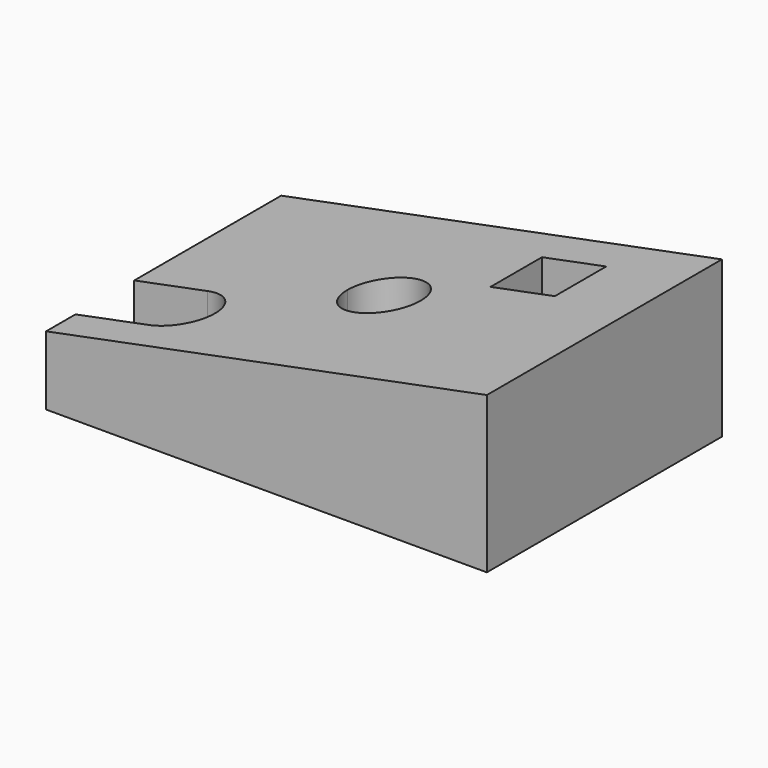
from build123d import *

# Parameters (mm, degrees)
F1_DEPTH = 53.975
F3_DEPTH = 101.6


with BuildPart() as f1:
    # F0 (on Top) → F1 (new body)
    with BuildSketch(Plane.XY):
        Polygon((36.5125, -50.8), (76.2, -50.8), (76.2, 50.8), (-76.2, 50.8), (-76.2, 25.4), (25.4, 25.4), (25.4, 36.5125), (47.625, 36.5125), (47.625, 14.2875), (36.5125, 14.2875), align=None)
        with BuildLine():
            Line((-76.2, -50.8), (0, -50.8))
            Line((0, -50.8), (0, -12.7))
            ThreePointArc((0, -12.7), (-8.9802561211, -8.9802561211), (-12.7, 0))
            Line((-12.7, 0), (-76.2, 0))
            Line((-76.2, 0), (-76.2, -12.7))
            Line((-76.2, -12.7), (-50.8, -12.7))
            ThreePointArc((-50.8, -12.7), (-41.8197438789, -16.4197438789), (-38.1, -25.4))
            ThreePointArc((-38.1, -25.4), (-41.8197438789, -34.3802561211), (-50.8, -38.1))
            Line((-50.8, -38.1), (-76.2, -38.1))
            Line((-76.2, -38.1), (-76.2, -50.8))
        make_face()
        with BuildLine():
            Line((0, -50.8), (36.5125, -50.8))
            Line((36.5125, -50.8), (36.5125, 14.2875))
            Line((36.5125, 14.2875), (25.4, 14.2875))
            Line((25.4, 14.2875), (25.4, 25.4))
            Line((25.4, 25.4), (-76.2, 25.4))
            Line((-76.2, 25.4), (-76.2, 0))
            Line((-76.2, 0), (-12.7, 0))
            ThreePointArc((-12.7, 0), (0, 12.7), (12.7, 0))
            ThreePointArc((12.7, 0), (8.9802561211, -8.9802561211), (0, -12.7))
            Line((0, -12.7), (0, -50.8))
        make_face()
    extrude(amount=F1_DEPTH)

    # F2 (on face) → F3 (cut)
    with BuildSketch(Plane.XZ.offset(50.8)):
        Polygon((-76.2, 23.8125), (76.2, 53.975), (-76.2, 53.975), align=None)
    extrude(amount=-F3_DEPTH, mode=Mode.SUBTRACT)


solid = f1.part
